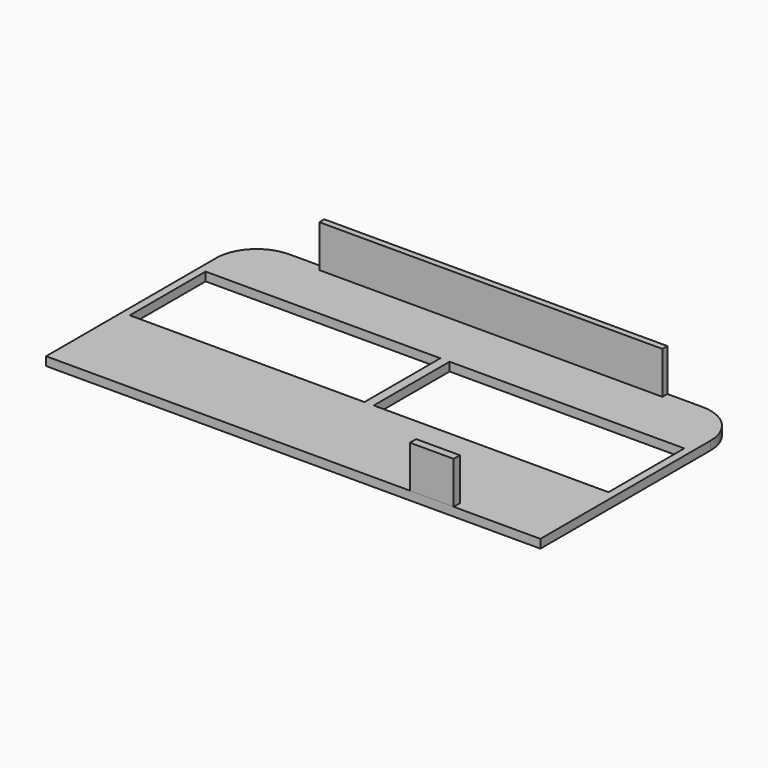
from build123d import *

# Parameters (mm, degrees)
F0_W     = 51.562
F0_H     = 20.828
F1_DEPTH = 1.905
F2_W     = 75.32803
F2_H     = 1.369201
F2_W_2   = 9.609683
F2_H_2   = 1.712197
F3_DEPTH = 9.271


with BuildPart() as f1:
    # F0 (on Top) → F1 (new body)
    with BuildSketch(Plane.XY):
        with BuildLine():
            ThreePointArc((54.2925, 18.923), (51.688679, 25.209179), (45.4025, 27.813))
            Line((45.4025, 27.813), (-45.4025, 27.813))
            ThreePointArc((-45.4025, 27.813), (-51.688679, 25.209179), (-54.2925, 18.923))
            Line((-54.2925, 18.923), (-54.2925, -27.813))
            Line((-54.2925, -27.813), (54.2925, -27.813))
            Line((54.2925, -27.813), (54.2925, 18.923))
        make_face()
        with Locations((-26.797, 3.429)):
            Rectangle(F0_W, F0_H, mode=Mode.SUBTRACT)
        with Locations((26.797, 3.429)):
            Rectangle(F0_W, F0_H, mode=Mode.SUBTRACT)
    extrude(amount=F1_DEPTH)

    # F2 (on face) → F3 (join)
    with BuildSketch(Plane.XY.offset(1.905)):
        with Locations((0, 27.1284)):
            Rectangle(F2_W, F2_H)
        with Locations((30.437658, -26.956902)):
            Rectangle(F2_W_2, F2_H_2)
    extrude(amount=F3_DEPTH)


solid = f1.part
